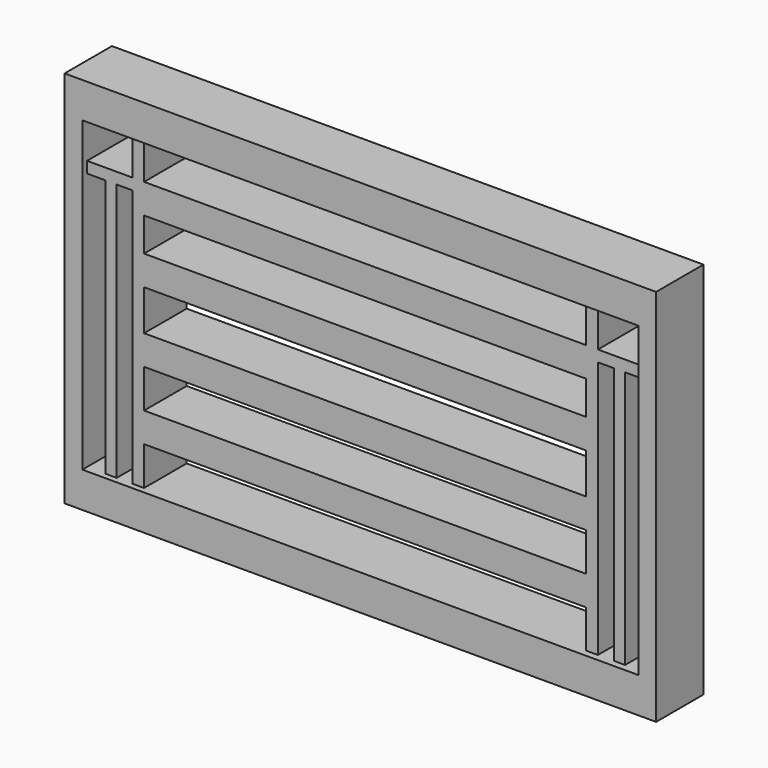
from build123d import *

# Parameters (mm, degrees)
F0_W     = 50
F0_H     = 32
F1_DEPTH = 5
F2_W     = 37.36
F2_H     = 2.5
F2_W_2   = 0.95
F2_H_2   = 21.858668
F3_DEPTH = 4.5


with BuildPart() as f1:
    # F0 (on Front) → F1 (new body)
    with BuildSketch(Plane.XZ):
        with Locations((25, 16)):
            Rectangle(F0_W, F0_H)
        Polygon((1.5, 26.516061), (1.5, 29), (6.799321, 29), (7.994429, 29), (48.5, 29), (48.5, 3), (7.994429, 3), (6.799321, 3), (4.750563, 3), (3.811549, 3), (1.5, 3), (1.5, 25.406318), align=None, mode=Mode.SUBTRACT)
    extrude(amount=F1_DEPTH)

    # F2 (on Front) → F3 (join)
    with BuildSketch(Plane.XZ):
        Polygon((48.490315, 25.78), (44.68, 25.78), (44.68, 24.83), (46.027586, 24.83), (46.585158, 24.83), (46.977586, 24.83), (48.490315, 24.83), align=None)
        Polygon((46.585158, 24.83), (46.027586, 24.83), (46.027586, 3.049084), (46.977586, 3.049084), (46.977586, 24.83), align=None)
        Polygon((43.68, 29.002989), (43.68, 25.78), (43.68, 23.28), (43.68, 20.441069), (43.68, 17.941069), (43.68, 14.517074), (43.68, 12.017074), (43.68, 8.762338), (43.68, 6.262338), (43.68, 3.049084), (44.68, 3.049084), (44.68, 24.83), (44.68, 25.78), (44.68, 29.002989), align=None)
        with Locations((25, 24.53)):
            Rectangle(F2_W, F2_H)
        with Locations((25, 19.191069)):
            Rectangle(F2_W, F2_H)
        with Locations((25, 24.53)):
            Rectangle(F2_W, F2_H)
        with Locations((25, 13.267074)):
            Rectangle(F2_W, F2_H)
        with Locations((25, 7.512338)):
            Rectangle(F2_W, F2_H)
        Polygon((6.32, 25.78), (6.32, 29.034796), (5.32, 29.034796), (5.32, 25.78), (5.32, 24.83), (5.32, 2.971332), (6.32, 2.971332), (6.32, 6.262338), (6.32, 8.762338), (6.32, 12.017074), (6.32, 14.517074), (6.32, 17.941069), (6.32, 20.441069), (6.32, 23.28), align=None)
        Polygon((5.32, 24.83), (5.32, 25.78), (1.491239, 25.78), (1.491239, 24.83), (3.054965, 24.83), (4.004965, 24.83), align=None)
        with Locations((3.529965, 13.900666)):
            Rectangle(F2_W_2, F2_H_2)
    extrude(amount=F3_DEPTH)


solid = f1.part
